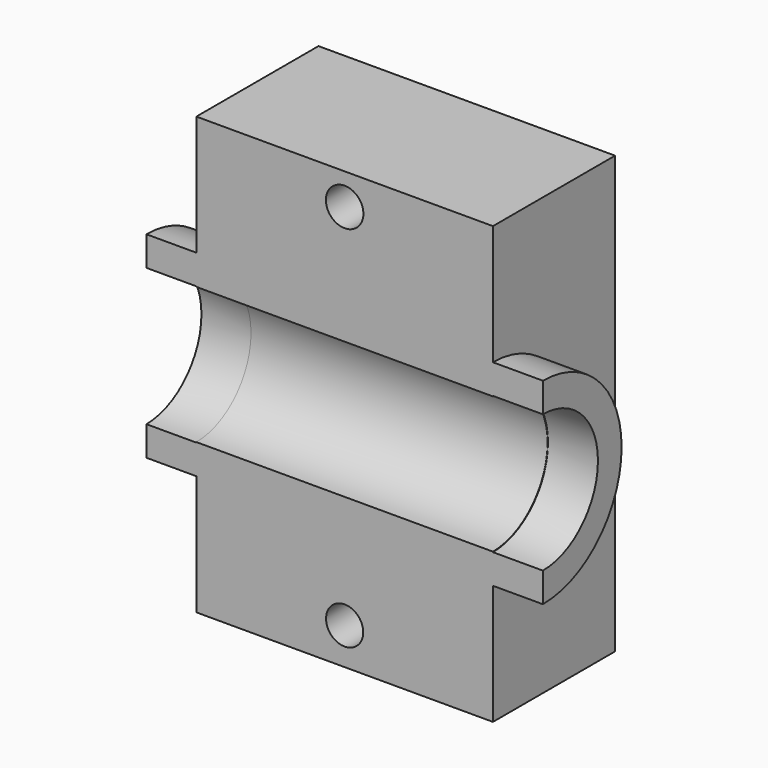
from build123d import *

# Parameters (mm, degrees)
F0_W          = 75.9948119521
F0_H          = 111.8377298117
F0_R          = 4.7655494626
F0_R_2        = 4.8016385214
F1_DEPTH      = 39.116
F2_R          = 25.2095031521
F2_R_2        = 17.6279340775
F3_DEPTH      = 50.8
F3_DEPTH_BACK = 50.8
F4_R          = 17.506739517
F5_DEPTH      = 77.978
F5_DEPTH_BACK = 76.962
F6_W          = 38.5849960148
F6_H          = 51.1202197522
F7_DEPTH      = 50.8
F7_DEPTH_BACK = 50.8


with BuildPart() as f1:
    # F0 (on Front) → F1 (new body)
    with BuildSketch(Plane.XZ):
        Rectangle(F0_W, F0_H)
        with Locations((0, -46.5174391866)):
            Circle(F0_R, mode=Mode.SUBTRACT)
        with Locations((0, 47.8884801269)):
            Circle(F0_R_2, mode=Mode.SUBTRACT)
    extrude(amount=-F1_DEPTH)

    # F2 (on Right) → F3 (join, two sides)
    with BuildSketch(Plane.YZ) as f3_sk:
        Circle(F2_R)
        Circle(F2_R_2, mode=Mode.SUBTRACT)
    extrude(amount=F3_DEPTH)
    extrude(f3_sk.sketch, amount=-F3_DEPTH_BACK)

    # F4 (on Right) → F5 (cut, two sides)
    with BuildSketch(Plane.YZ) as f5_sk:
        Circle(F4_R)
    extrude(amount=-F5_DEPTH, mode=Mode.SUBTRACT)
    extrude(f5_sk.sketch, amount=F5_DEPTH_BACK, mode=Mode.SUBTRACT)

    # F6 (on Right) → F7 (cut, two sides)
    with BuildSketch(Plane.YZ) as f7_sk:
        with Locations((-19.2924980074, 9.313e-07)):
            Rectangle(F6_W, F6_H)
    extrude(amount=-F7_DEPTH, mode=Mode.SUBTRACT)
    extrude(f7_sk.sketch, amount=F7_DEPTH_BACK, mode=Mode.SUBTRACT)


solid = f1.part
